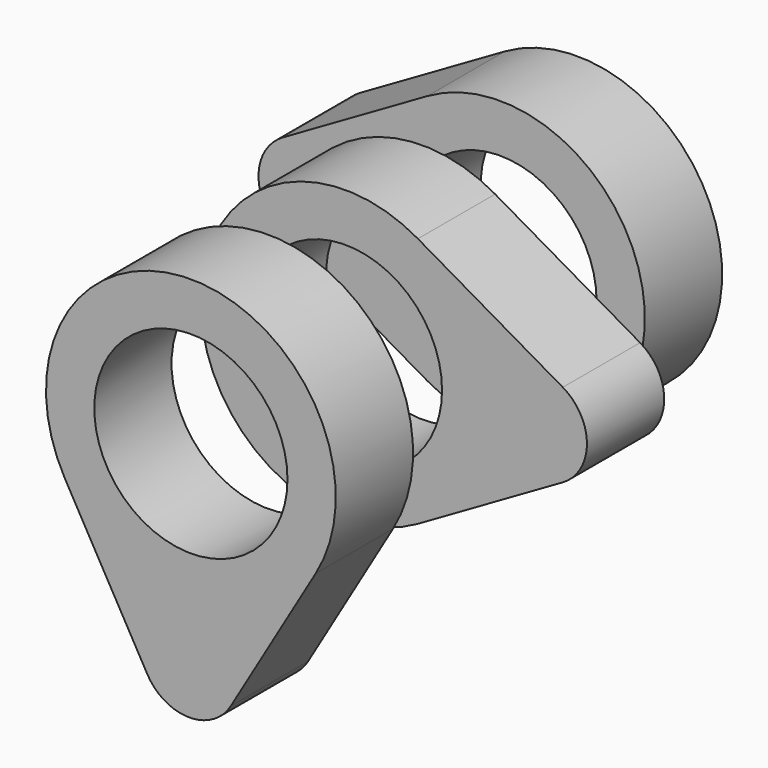
from build123d import *

# Parameters (mm, degrees)
F0_R      = 12.7
F1_DEPTH  = 12.7
F4_R      = 12.7
F5_DEPTH  = 12.7
F1_FACE_R = 12.7
F7_DEPTH  = 12.7


with BuildPart() as f1:
    # F0 (on Front) → F1 (new body)
    with BuildSketch(Plane.XZ):
        with BuildLine():
            Line((-16.5747123475, -9.3904957588), (-5.7315018392, -28.52932503))
            ThreePointArc((-5.7315018392, -28.52932503), (-0.2582471542, -31.7489497213), (5.2666569617, -28.6187844684))
            Line((5.2666569617, -28.6187844684), (16.419764055, -9.658874074))
            ThreePointArc((16.419764055, -9.658874074), (0.1549482925, 19.0493698328), (-16.5747123475, -9.3904957588))
        make_face()
        Circle(F0_R, mode=Mode.SUBTRACT)
    extrude(amount=-F1_DEPTH)

    # F6 (on offset) + F1_face (on face) → F7 (join)
    with BuildSketch(Plane.XZ.offset(-50.8)):
        with BuildLine():
            Line((-28.575, -5.499261314), (-9.525, -16.4977839421))
            ThreePointArc((-9.525, -16.4977839421), (19.05, 0), (-9.525, 16.4977839421))
            Line((-9.525, 16.4977839421), (-28.575, 5.499261314))
            ThreePointArc((-28.575, 5.499261314), (-31.75, 0), (-28.575, -5.499261314))
        make_face()
        with BuildLine():
            ThreePointArc((-12.7, 0), (0, 12.7), (12.7, 0))
            ThreePointArc((12.7, 0), (0, -12.7), (-12.7, 0))
        make_face(mode=Mode.SUBTRACT)
    with BuildSketch(Plane(origin=(-0.0482132314, 0, -5.927342989), x_dir=(1, 0, 0), z_dir=(0, -1, 0))):
        with BuildLine():
            ThreePointArc((16.4679772864, -3.731531085), (0.2031615239, 24.9767128218), (-16.5264991162, -3.4631527698))
            Line((-16.5264991162, -3.4631527698), (-5.6832886078, -22.601982041))
            ThreePointArc((-5.6832886078, -22.601982041), (-0.2100339228, -25.8216067323), (5.314870193, -22.6914414794))
            Line((5.314870193, -22.6914414794), (16.4679772864, -3.731531085))
        make_face()
        with Locations((0.0482132314, 5.927342989)):
            Circle(F1_FACE_R, mode=Mode.SUBTRACT)
    extrude(amount=-F7_DEPTH)


with BuildPart() as f5:
    # F4 (on offset) → F5 (new body)
    with BuildSketch(Plane.XZ.offset(-25.4)):
        with BuildLine():
            Line((28.575, 5.499261314), (9.525, 16.4977839421))
            ThreePointArc((9.525, 16.4977839421), (-19.05, 0), (9.525, -16.4977839421))
            Line((9.525, -16.4977839421), (28.575, -5.499261314))
            ThreePointArc((28.575, -5.499261314), (31.75, 0), (28.575, 5.499261314))
        make_face()
        Circle(F4_R, mode=Mode.SUBTRACT)
    extrude(amount=-F5_DEPTH)


solid = Compound([f1.part, f5.part])
